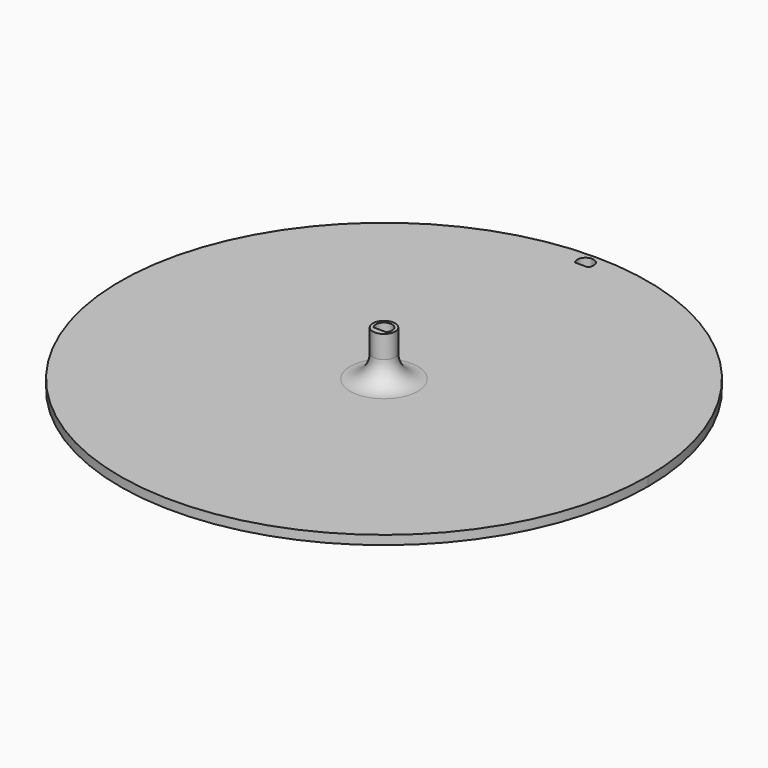
from build123d import *

# Parameters (mm, degrees)
F0_R     = 3.7
F1_DEPTH = 15
F3_DEPTH = 3


with BuildPart() as f1:
    # F0 (on Top) → F1 (new body)
    with BuildSketch(Plane.XY):
        Circle(F0_R)
        with BuildLine():
            ThreePointArc((-2.0976176963, -1.7), (-0.9017849577, 2.5449526302), (2.7, 0))
            ThreePointArc((2.7, 0), (2.5449526302, -0.9017849577), (2.0976176963, -1.7))
            ThreePointArc((2.0976176963, -1.7), (0, -2.7), (-2.0976176963, -1.7))
        make_face(mode=Mode.SUBTRACT)
        with BuildLine():
            Line((0, -1.7), (-2.0976176963, -1.7))
            ThreePointArc((-2.0976176963, -1.7), (0, -2.7), (2.0976176963, -1.7))
            Line((2.0976176963, -1.7), (0, -1.7))
        make_face()
    extrude(amount=F1_DEPTH)

    # F2 (on Top) → F3 (join)
    with BuildSketch(Plane.XY):
        with BuildLine():
            ThreePointArc((0, 87.5), (-61.8718433538, -61.8718433538), (87.5, 0))
            ThreePointArc((87.5, 0), (61.8718433538, 61.8718433538), (0, 87.5))
        make_face()
        with BuildLine():
            ThreePointArc((-2.0976176963, 81.8), (-2.4372115214, 84.6618950039), (0, 86.2))
            ThreePointArc((0, 86.2), (1.9091883092, 85.4091883092), (2.7, 83.5))
            ThreePointArc((2.7, 83.5), (2.5449526302, 82.5982150423), (2.0976176963, 81.8))
            ThreePointArc((2.0976176963, 81.8), (1.1618950039, 81.0627884786), (0, 80.8))
            ThreePointArc((0, 80.8), (-1.1618950039, 81.0627884786), (-2.0976176963, 81.8))
        make_face(mode=Mode.SUBTRACT)
        with BuildLine():
            Line((0, 81.8), (-2.0976176963, 81.8))
            ThreePointArc((-2.0976176963, 81.8), (-1.1618950039, 81.0627884786), (0, 80.8))
            Line((0, 80.8), (0, 81.8))
        make_face()
        with BuildLine():
            Line((2.0976176963, 81.8), (0, 81.8))
            Line((0, 81.8), (0, 80.8))
            ThreePointArc((0, 80.8), (1.1618950039, 81.0627884786), (2.0976176963, 81.8))
        make_face()
    extrude(amount=-F3_DEPTH)

    # F4 (on Right) → F5 (revolve)
    with BuildSketch(Plane.YZ):
        with BuildLine():
            Line((3.7, 7.5), (3.7, 0))
            Line((3.7, 0), (11.2, 0))
            ThreePointArc((11.2, 0), (5.8966991411, 2.1966991411), (3.7, 7.5))
        make_face()
    revolve(axis=Axis((0, 0, 3.75), (0, 0, 1)))


solid = f1.part
